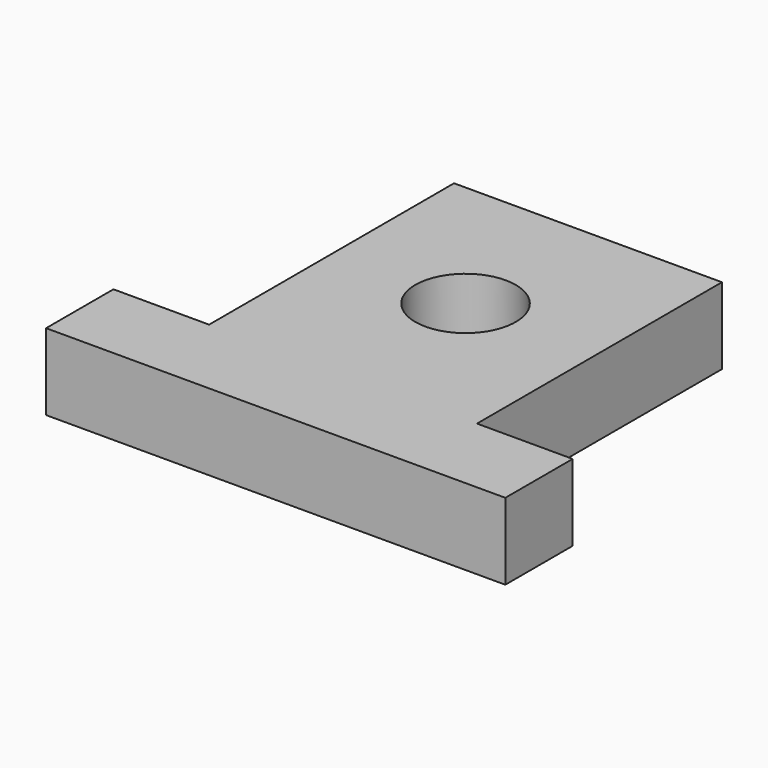
from build123d import *

# Parameters (mm, degrees)
F1_DEPTH = 12.7
F3_D     = 16.66748


with BuildPart() as f1:
    # F0 (on Top) → F1 (new body)
    with BuildSketch(Plane.XY):
        Polygon((22.225, -25.4), (22.225, 25.4), (-22.225, 25.4), (-22.225, -25.4), (-38.1, -25.4), (-38.1, -39.37), (38.1, -39.37), (38.1, -25.4), align=None)
    extrude(amount=F1_DEPTH)

    # F3 (through all)
    with Locations(Plane.XY.offset(12.7)):
        with Locations((0, 0)):
            Hole(F3_D / 2)


solid = f1.part
